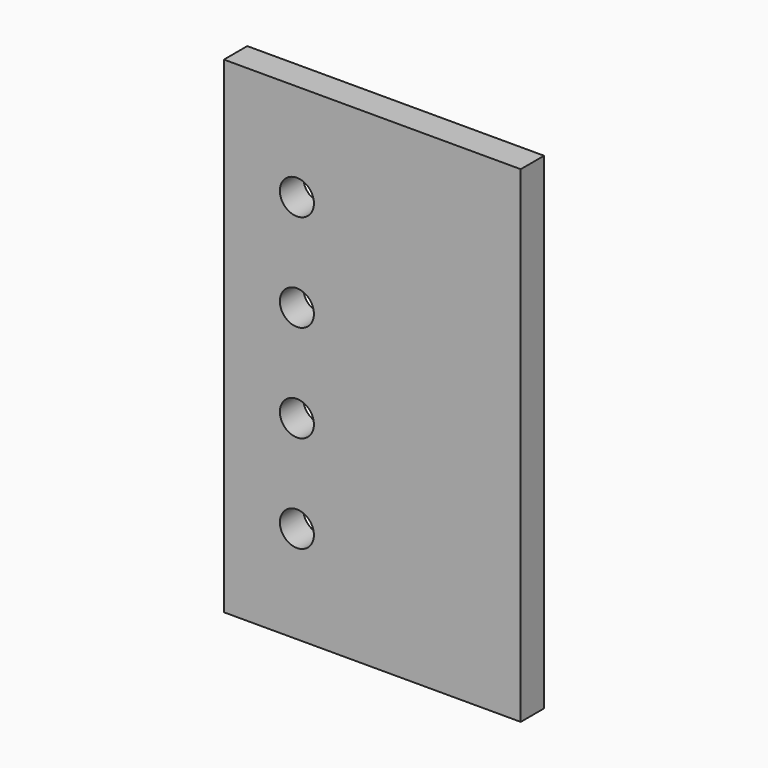
from build123d import *

# Parameters (mm, degrees)
F0_W     = 122
F0_H     = 200
F1_DEPTH = 12
F3_D     = 14


with BuildPart() as f1:
    # F0 (on Front) → F1 (new body)
    with BuildSketch(Plane.XZ):
        with Locations((61, 100)):
            Rectangle(F0_W, F0_H)
    extrude(amount=F1_DEPTH)

    # F3 (through all)
    with Locations(Plane.XZ.offset(12)):
        with Locations((30, 160), (30, 120), (30, 80), (30, 40)):
            Hole(F3_D / 2)


solid = f1.part
